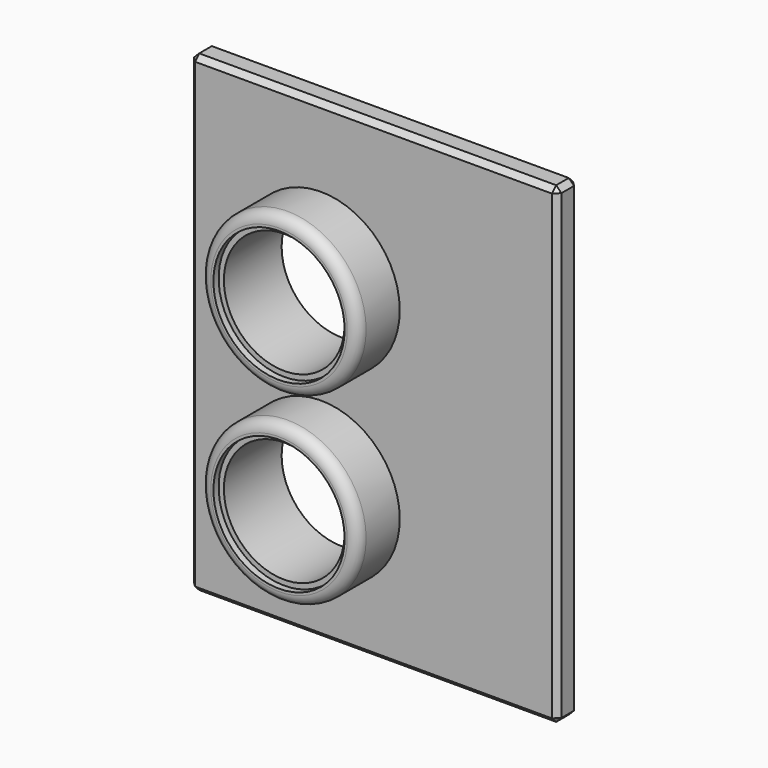
from build123d import *

# Parameters (mm, degrees)
F0_W           = 177.8
F0_H           = 228.6
F1_DEPTH       = 12.7
F2_R           = 38.1
F3_DEPTH       = 25.4
F4_SIZE        = 2.54
F5_R           = 5.08
F7_D           = 58.42
F7_CBORE_D     = 63.5
F7_CBORE_DEPTH = 3.175


with BuildPart() as f1:
    # F0 (on Front) → F1 (new body)
    with BuildSketch(Plane.XZ):
        with Locations((88.9, 114.3)):
            Rectangle(F0_W, F0_H)
    extrude(amount=F1_DEPTH)

    # F2 (on face) → F3 (join)
    with BuildSketch(Plane.XZ.offset(12.7)):
        with Locations((63.5, 152.4)):
            Circle(F2_R)
        with Locations((63.5, 63.5)):
            Circle(F2_R)
    extrude(amount=F3_DEPTH)

    # F4
    f4_edges = [f1.edges().sort_by_distance(p)[0] for p in [
        (177.8, -12.7, 114.3),
        (177.8, 0, 114.3),
        (88.9, -12.7, 228.6),
        (88.9, 0, 228.6),
        (0, -12.7, 114.3),
        (0, 0, 114.3),
        (88.9, -12.7, 0),
        (88.9, 0, 0),
        (0, -6.35, 0),
        (177.8, -6.35, 0),
        (0, -6.35, 228.6),
        (177.8, -6.35, 228.6),
    ]]
    chamfer(f4_edges, length=F4_SIZE)

    # F5
    f5_edges = [f1.edges().sort_by_distance(p)[0] for p in [
        (25.4, -38.1, 63.5),
        (25.4, -38.1, 152.4),
    ]]
    fillet(f5_edges, radius=F5_R)

    # F7 (through all)
    with Locations(Plane.XZ.offset(38.1)):
        with Locations((63.5, 152.4), (63.5, 63.500218)):
            CounterBoreHole(F7_D / 2, F7_CBORE_D / 2, F7_CBORE_DEPTH)


solid = f1.part
